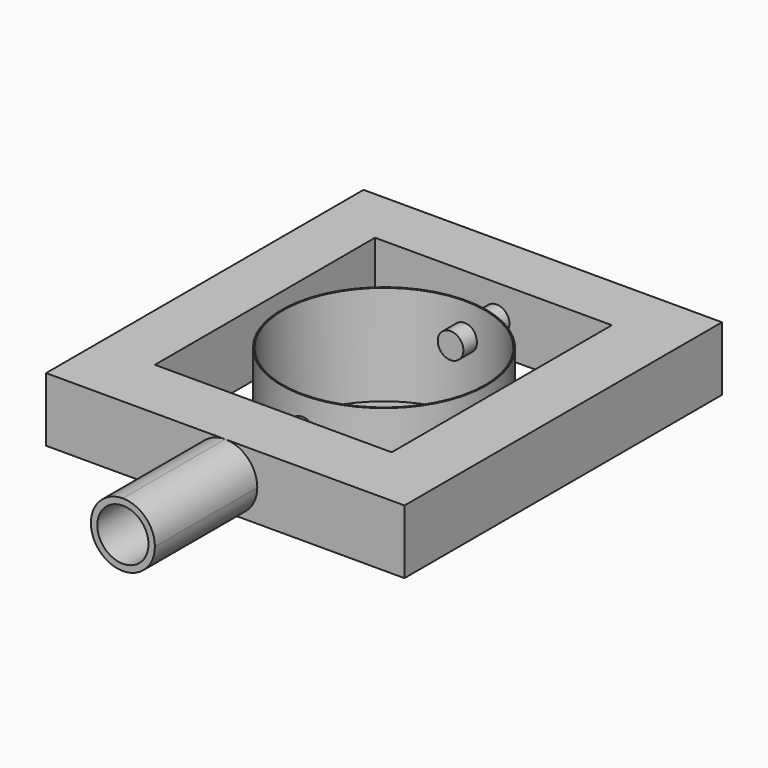
from build123d import *

# Parameters (mm, degrees)
F0_W      = 140
F0_H      = 25
F1_DEPTH  = 155
F2_R      = 40
F2_R_2    = 39.5
F3_DEPTH  = 40
F4_R      = 39.5
F5_DEPTH  = 39
F6_W      = 92.5
F6_H      = 107.5
F6_R      = 40
F7_DEPTH  = 95
F8_R      = 5
F9_DEPTH  = 45
F10_R     = 5
F11_DEPTH = 45
F12_R     = 10
F13_DEPTH = 50


with BuildPart() as f1:
    # F0 (on Front) → F1 (new body)
    with BuildSketch(Plane.XZ):
        with Locations((70, 12.5)):
            Rectangle(F0_W, F0_H)
    extrude(amount=F1_DEPTH)

    # F2 (on face) → F3 (join)
    with BuildSketch(Plane.XY.offset(25)):
        with Locations((70, -77.5)):
            Circle(F2_R)
        with Locations((70, -77.5)):
            Circle(F2_R_2, mode=Mode.SUBTRACT)
        with Locations((70, -77.5)):
            Circle(F2_R_2)
    extrude(amount=-F3_DEPTH)

    # F4 (on face) → F5 (cut)
    with BuildSketch(Plane.XY.offset(25)):
        with Locations((70, -77.5)):
            Circle(F4_R)
    extrude(amount=-F5_DEPTH, mode=Mode.SUBTRACT)

    # F6 (on face) → F7 (cut)
    with BuildSketch(Plane.XY.offset(25)):
        with Locations((68.75, -76.25)):
            Rectangle(F6_W, F6_H)
        with Locations((70, -77.5)):
            Circle(F6_R, mode=Mode.SUBTRACT)
    extrude(amount=-F7_DEPTH, mode=Mode.SUBTRACT)

    # F12 (on face) → F13 (join)
    with BuildSketch(Plane.XZ.offset(155)):
        with BuildLine():
            ThreePointArc((70, 0), (78.8388347648, 3.6611652352), (82.5, 12.5))
            ThreePointArc((82.5, 12.5), (78.8388347648, 21.3388347648), (70, 25))
            ThreePointArc((70, 25), (57.5, 12.5), (70, 0))
        make_face()
        with Locations((70, 12.5)):
            Circle(F12_R, mode=Mode.SUBTRACT)
    extrude(amount=F13_DEPTH)


with BuildPart() as f9:
    # F8 (on face) → F9 (new body)
    with BuildSketch(Plane.XZ.offset(155)):
        with Locations((70, 12.5)):
            Circle(F8_R)
    extrude(amount=-F9_DEPTH)


with BuildPart() as f11:
    # F10 (on face) → F11 (new body)
    with BuildSketch(Plane(origin=(0, 0, 0), x_dir=(-1, 0, 0), z_dir=(0, 1, 0))):
        with Locations((-70, 12.5)):
            Circle(F10_R)
    extrude(amount=-F11_DEPTH)


solid = Compound([f1.part, f9.part, f11.part])
